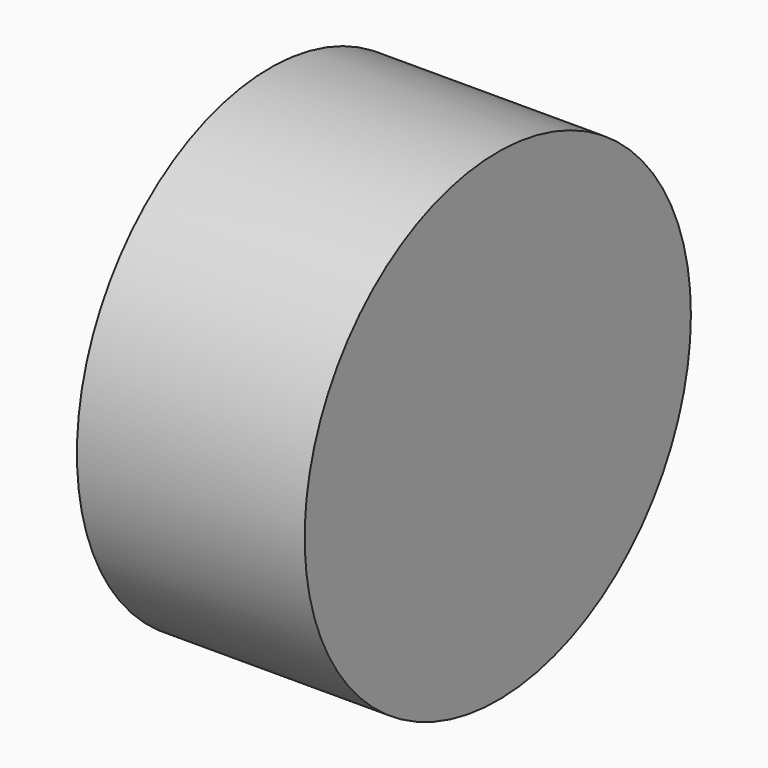
from build123d import *

# Parameters (mm, degrees)
F0_R     = 2936.775618371
F0_R_2   = 197.3864165544
F1_DEPTH = 2770.7588672638


with BuildPart() as f1:
    # F0 (on Right) → F1 (new body)
    with BuildSketch(Plane.YZ):
        with Locations((562.5458955765, -255.778670311)):
            Circle(F0_R)
        with Locations((-326.447725296, 173.2047945261)):
            Circle(F0_R_2, mode=Mode.SUBTRACT)
        with Locations((-326.447725296, 173.2047945261)):
            Circle(F0_R_2)
    extrude(amount=F1_DEPTH)


solid = f1.part
